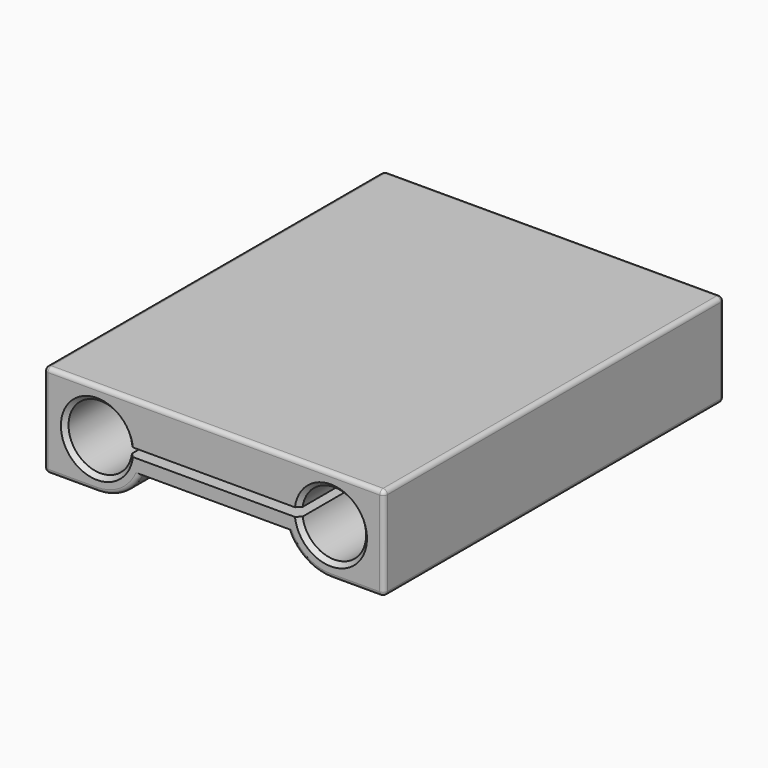
from build123d import *

# Parameters (mm, degrees)
F1_DEPTH = 100
F2_R     = 1
F3_SIZE  = 1


with BuildPart() as f1:
    # F0 (on Front) → F1 (new body)
    with BuildSketch(Plane.XZ):
        with BuildLine():
            Line((39, 11), (-39, 11))
            ThreePointArc((-39, 11), (-39.7071067812, 10.7071067812), (-40, 10))
            Line((-40, 10), (-40, -10))
            ThreePointArc((-40, -10), (-39.7071067812, -10.7071067812), (-39, -11))
            Line((-39, -11), (-27.5, -11))
            ThreePointArc((-27.5, -11), (-21.295163177, -9.0829510623), (-17.253049234, -4))
            Line((-17.253049234, -4), (17.253049234, -4))
            ThreePointArc((17.253049234, -4), (21.295163177, -9.0829510623), (27.5, -11))
            Line((27.5, -11), (39, -11))
            ThreePointArc((39, -11), (39.7071067812, -10.7071067812), (40, -10))
            Line((40, -10), (40, 10))
            ThreePointArc((40, 10), (39.7071067812, 10.7071067812), (39, 11))
        make_face()
        with BuildLine():
            ThreePointArc((-20.0669656263, -1), (-35, 0), (-20.0669656263, 1))
            Line((-20.0669656263, 1), (20.0669656263, 1))
            ThreePointArc((20.0669656263, 1), (35, 0), (20.0669656263, -1))
            Line((20.0669656263, -1), (-20.0669656263, -1))
        make_face(mode=Mode.SUBTRACT)
    extrude(amount=-F1_DEPTH)

    # F2
    f2_edges = [f1.edges().sort_by_distance(p)[0] for p in [
        (39, 50, 11),
        (-39, 50, 11),
        (0, 0, 11),
        (0, 100, 11),
    ]]
    fillet(f2_edges, radius=F2_R)

    # F3
    f3_edges = [f1.edges().sort_by_distance(p)[0] for p in [
        (-35, 0, 0),
        (35, 0, 0),
    ]]
    chamfer(f3_edges, length=F3_SIZE)


solid = f1.part
